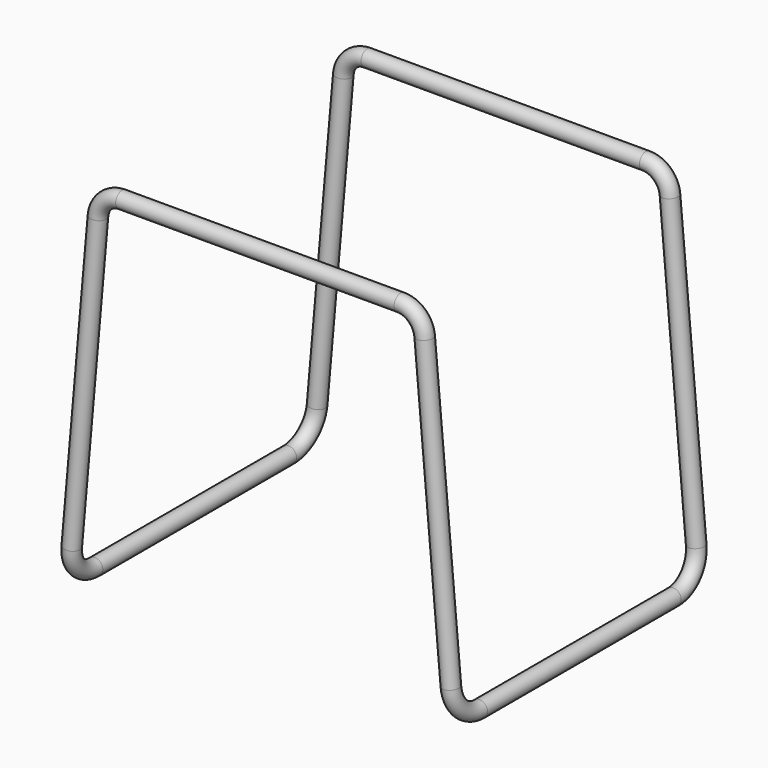
from build123d import *

# Parameters (mm, degrees)
F9_R   = 10
F9_R_2 = 8


with BuildPart() as f10:
    # F10: sweep along a path in F7, F0, F6, F3, F7
    with BuildLine(Plane(origin=(0, 0, 0), x_dir=(0, 1, 0), z_dir=(0.9961946981, 0, -0.0871557427))) as f10_path:
        Line((340, 0), (40, 0))
        ThreePointArc((40, 0), (11.7157287525, 11.7157287525), (0, 40))
        Line((0, 40), (0, 412.5100647795))
    with BuildLine(Plane.XZ) as f10_path_2:
        ThreePointArc((35.9526210867, 410.9403394428), (45.570755801, 430.4439872647), (65.8384620295, 438.3256671604))
        Line((65.8384620295, 438.3256671604), (410.8585915884, 438.3256671604))
        ThreePointArc((410.8585915884, 438.3256671604), (431.1262978169, 430.4439872647), (440.7444325312, 410.9403394428))
    with BuildLine(Plane(origin=(473.0760039295, 0, 41.38878733), x_dir=(0, 1, 0), z_dir=(0.9961946981, 0, 0.0871557427))) as f10_path_3:
        Line((0, 370.9631790058), (0, -1.5468857737))
        ThreePointArc((0, -1.5468857737), (11.7157287525, -29.8311570212), (40, -41.5468857737))
        Line((40, -41.5468857737), (340, -41.5468857737))
        ThreePointArc((340, -41.5468857737), (368.2842712475, -29.8311570212), (380, -1.5468857737))
        Line((380, -1.5468857737), (380, 370.9631790058))
    with BuildLine(Plane.XZ.offset(-380)) as f10_path_4:
        ThreePointArc((440.7444325312, 410.9403394428), (431.1262978169, 430.4439872647), (410.8585915885, 438.3256671604))
        Line((410.8585915885, 438.3256671604), (65.8384620295, 438.3256671604))
        ThreePointArc((65.8384620295, 438.3256671604), (45.570755801, 430.4439872647), (35.9526210867, 410.9403394428))
    with BuildLine(Plane(origin=(0, 0, 0), x_dir=(0, 1, 0), z_dir=(0.9961946981, 0, -0.0871557427))) as f10_path_5:
        Line((380, 412.5100647795), (380, 40))
        ThreePointArc((380, 40), (368.2842712475, 11.7157287525), (340, 0))
    # F9 (on offset) → F10 (sweep)
    with BuildSketch(Plane.XZ.offset(-40)):
        Circle(F9_R)
        Circle(F9_R_2, mode=Mode.SUBTRACT)
    sweep(path=f10_path.line + f10_path_2.line + f10_path_3.line + f10_path_4.line + f10_path_5.line)


solid = f10.part
